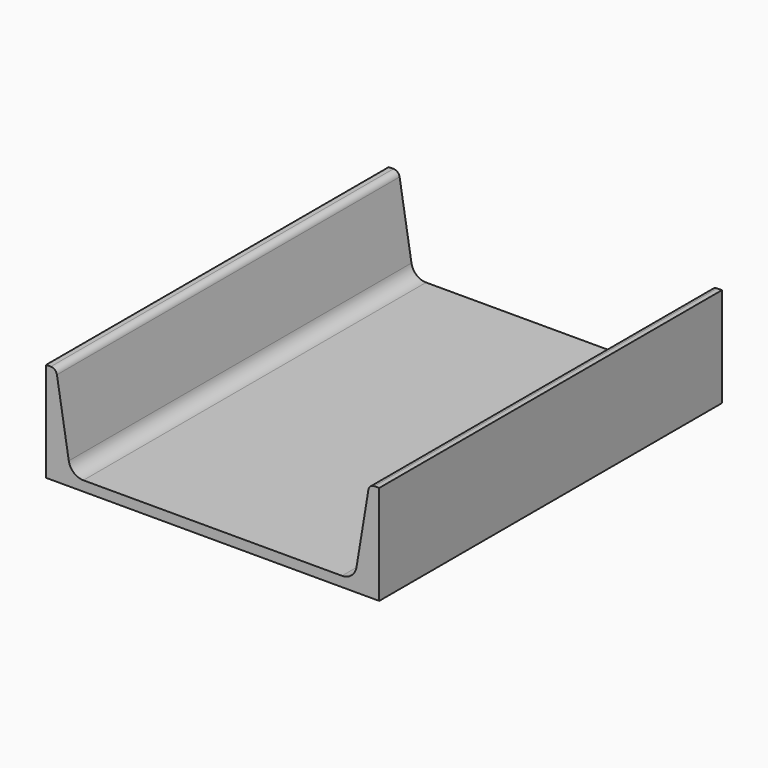
from build123d import *

# Parameters (mm, degrees)
F1_DEPTH = 228.6


with BuildPart() as f1:
    # F0 (on Front) → F1 (new body)
    with BuildSketch(Plane.XZ):
        with BuildLine():
            Line((0, 53.086), (0, 0))
            Line((0, 0), (177.8, 0))
            Line((177.8, 0), (177.8, 53.086))
            Line((177.8, 53.086), (175.268111, 53.086))
            ThreePointArc((175.268111, 53.086), (173.131608, 52.30165), (172.010106, 50.321224))
            Line((172.010106, 50.321224), (165.679132, 11.926927))
            ThreePointArc((165.679132, 11.926927), (165.278092, 10.430999), (164.592, 9.042507))
            ThreePointArc((164.592, 9.042507), (161.731089, 6.323272), (157.910044, 5.334))
            Line((157.910044, 5.334), (19.889956, 5.334))
            ThreePointArc((19.889956, 5.334), (14.795219, 7.204374), (12.120868, 11.926927))
            Line((12.120868, 11.926927), (5.789894, 50.321224))
            ThreePointArc((5.789894, 50.321224), (4.668392, 52.30165), (2.531889, 53.086))
            Line((2.531889, 53.086), (0, 53.086))
        make_face()
    extrude(amount=F1_DEPTH)


solid = f1.part
